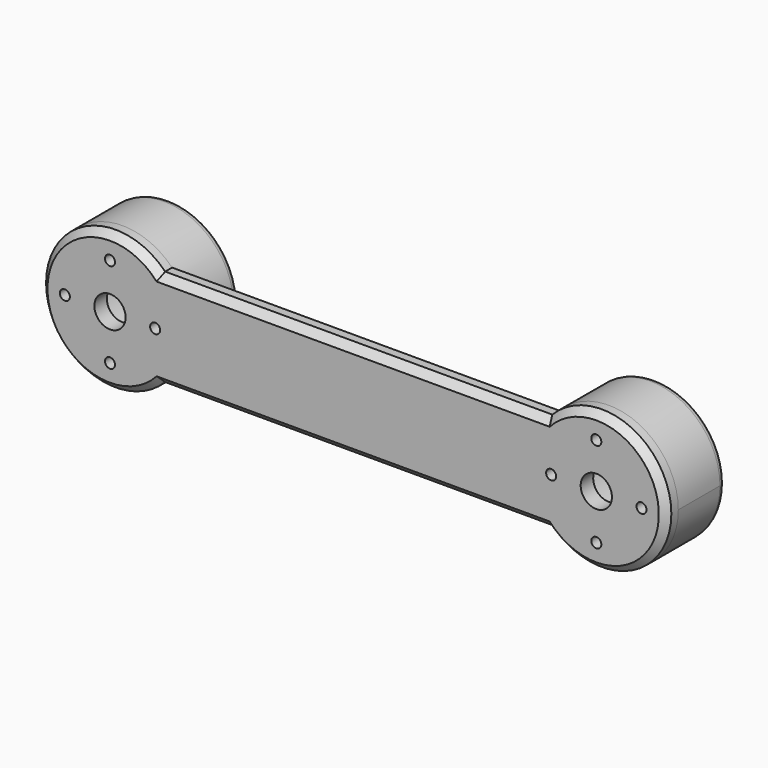
from build123d import *

# Parameters (mm, degrees)
PAD_DEPTH       = 4.5
PAD001_DEPTH    = 140
SKETCH002_R     = 20
PAD002_DEPTH    = 17
SKETCH003_R     = 15.5
POCKET_DEPTH    = 17
POCKET001_DEPTH = 140
FILLET_R        = 2
CHAMFER_SIZE    = 2
SKETCH005_R     = 4.5
SKETCH005_R_2   = 1.45
POCKET002_DEPTH = 5


with BuildPart() as part:
    # Sketch → Pad (new body)
    with BuildSketch(Plane.XZ):
        with BuildLine():
            ThreePointArc((14.282857, 14), (-20, 0), (14.282857, -14))
            Line((14.282857, -14), (125.717143, -14))
            ThreePointArc((125.717143, -14), (160, 0), (125.717143, 14))
            Line((14.282857, 14), (125.717143, 14))
        make_face()
    extrude(amount=PAD_DEPTH)

    # Sketch001 → Pad001 (join)
    with BuildSketch(Plane.YZ):
        Polygon((0, 8.637), (10.293176, 0), (0, -8.637), (0, -14), (16.68455, 0), (0, 14), align=None)
    extrude(amount=PAD001_DEPTH)

    # Sketch002 (on Face4 of Pad001) → Pad002 (join)
    with BuildSketch(Plane(origin=(0, 0, 0), x_dir=(1, 0, 0), z_dir=(0, 1, 0))):
        Circle(SKETCH002_R)
        with Locations((140, 0)):
            Circle(SKETCH002_R)
    extrude(amount=PAD002_DEPTH)

    # Sketch003 (on Face9 of Pad002) → Pocket (cut)
    with BuildSketch(Plane(origin=(0, 17, 0), x_dir=(1, 0, 0), z_dir=(0, 1, 0))):
        Circle(SKETCH003_R)
        with Locations((140, 0)):
            Circle(SKETCH003_R)
    extrude(amount=-POCKET_DEPTH, mode=Mode.SUBTRACT)

    # Sketch004 → Pocket001 (cut)
    with BuildSketch(Plane.YZ):
        Polygon((0, 8.635), (0, -8.635), (10.290792, 0), align=None)
    extrude(amount=POCKET001_DEPTH, mode=Mode.SUBTRACT)

    # Fillet
    fillet_edges = [part.edges().sort_by_distance(p)[0] for p in [
        (120, 17, 0),
        (124.5, 17, 0),
        (-20, 17, 0),
        (-15.5, 17, 0),
    ]]
    fillet(fillet_edges, radius=FILLET_R)

    # Chamfer
    chamfer_edges = [part.edges().sort_by_distance(p)[0] for p in [
        (-20, -4.5, 0),
        (70, -4.5, -14),
        (160, -4.5, 0),
        (70, -4.5, 14),
    ]]
    chamfer(chamfer_edges, length=CHAMFER_SIZE)

    # Sketch005 (on Face29 of Chamfer) → Pocket002 (cut)
    with BuildSketch(Plane(origin=(0, 0, 0), x_dir=(1, 0, 0), z_dir=(0, 1, 0))):
        Circle(SKETCH005_R)
        with Locations((13, 0)):
            Circle(SKETCH005_R_2)
        with Locations((-13, 0)):
            Circle(SKETCH005_R_2)
        with Locations((140, 0)):
            Circle(SKETCH005_R)
        with Locations((153, 0)):
            Circle(SKETCH005_R_2)
        with Locations((127, 0)):
            Circle(SKETCH005_R_2)
        with Locations((0, 13)):
            Circle(SKETCH005_R_2)
        with Locations((0, -13)):
            Circle(SKETCH005_R_2)
        with Locations((140, 13)):
            Circle(SKETCH005_R_2)
        with Locations((140, -13)):
            Circle(SKETCH005_R_2)
    extrude(amount=-POCKET002_DEPTH, mode=Mode.SUBTRACT)


solid = part.part
